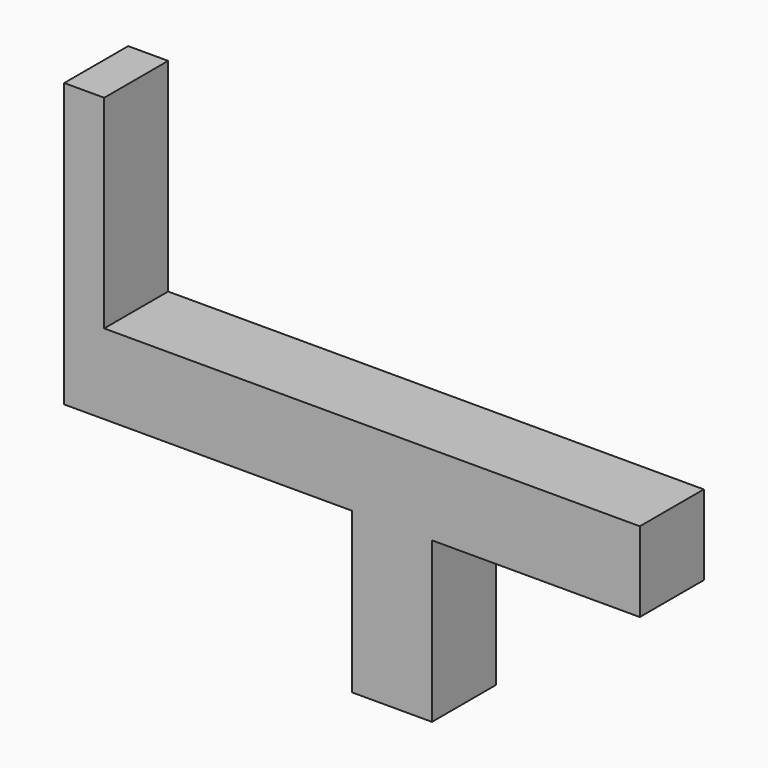
from build123d import *

# Parameters (mm, degrees)
SKETCH_W     = 10
SKETCH_H     = 10
PAD_DEPTH    = 30
SKETCH001_W  = 10
SKETCH001_H  = 10
PAD001_DEPTH = 26
SKETCH002_W  = 10
SKETCH002_H  = 10
PAD002_DEPTH = 36
SKETCH003_W  = 5
SKETCH003_H  = 10
PAD003_DEPTH = 25.4


with BuildPart() as part:
    # Sketch → Pad (new body)
    with BuildSketch(Plane.XY):
        with Locations((5, 5)):
            Rectangle(SKETCH_W, SKETCH_H)
    extrude(amount=PAD_DEPTH)

    # Sketch001 (on Face2 of Pad) → Pad001 (join)
    with BuildSketch(Plane.YZ.offset(10)):
        with Locations((5, 25)):
            Rectangle(SKETCH001_W, SKETCH001_H)
    extrude(amount=PAD001_DEPTH)

    # Sketch002 (on Face3 of Pad001) → Pad002 (join)
    with BuildSketch(Plane(origin=(0, 0, 0), x_dir=(0, -1, 0), z_dir=(-1, 0, 0))):
        with Locations((-5, 25)):
            Rectangle(SKETCH002_W, SKETCH002_H)
    extrude(amount=PAD002_DEPTH)

    # Sketch003 (on Face10 of Pad002) → Pad003 (join)
    with BuildSketch(Plane.XY.offset(30)):
        with Locations((-33.5, 5)):
            Rectangle(SKETCH003_W, SKETCH003_H)
    extrude(amount=PAD003_DEPTH)


solid = part.part
